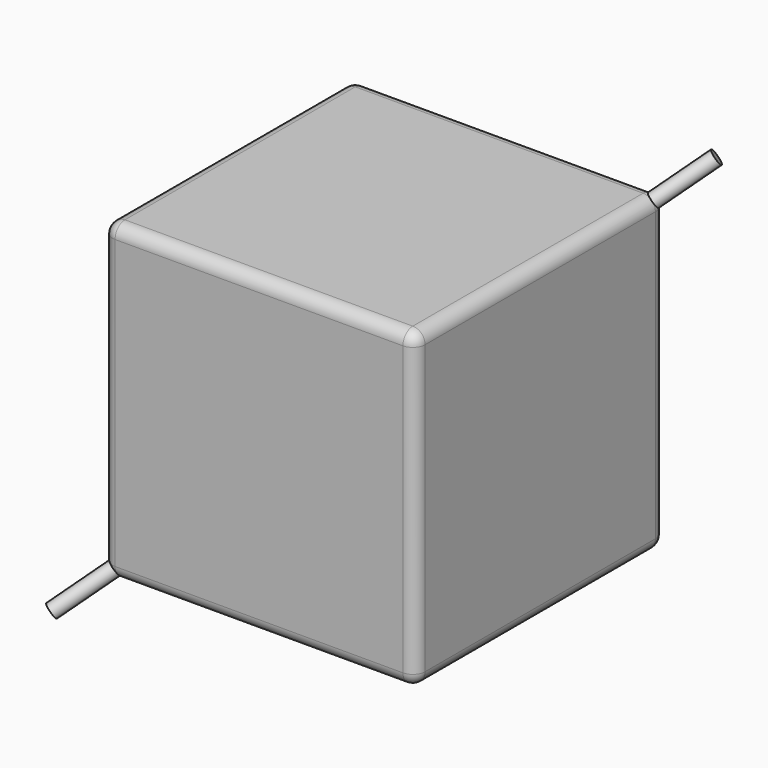
from build123d import *

# Parameters (mm, degrees)
F0_W     = 127
F0_H     = 127
F1_DEPTH = 63.5
F4_R     = 5


with BuildPart() as f1:
    # F0 (on Top) → F1 (new body, symmetric)
    with BuildSketch(Plane.XY):
        Rectangle(F0_W, F0_H)
    extrude(amount=F1_DEPTH, both=True)

    # F4
    f4_edges = [f1.edges().sort_by_distance(p)[0] for p in [
        (63.5, 0, 63.5),
        (0, 63.5, 63.5),
        (-63.5, 0, 63.5),
        (0, -63.5, 63.5),
        (0, -63.5, -63.5),
        (63.5, -63.5, 0),
        (-63.5, -63.5, 0),
        (63.5, 0, -63.5),
        (63.5, 63.5, 0),
        (0, 63.5, -63.5),
        (-63.5, 0, -63.5),
        (-63.5, 63.5, 0),
    ]]
    fillet(f4_edges, radius=F4_R)

    # F3 (on 3pt) → F5 (revolve)
    with BuildSketch(Plane(origin=(0, 0, 0), x_dir=(0.7071067812, 0.7071067812, 0), z_dir=(0.7071067812, -0.7071067812, 0))):
        Polygon((-106.1445555206, -75.0555349947), (106.1445555206, 75.0555349947), (104.412504713, 77.5050247374), (-107.8766063282, -72.6060452519), align=None)
    revolve(axis=Axis((0, 0, 0), (0.5773502692, 0.5773502692, 0.5773502692)))


solid = f1.part
